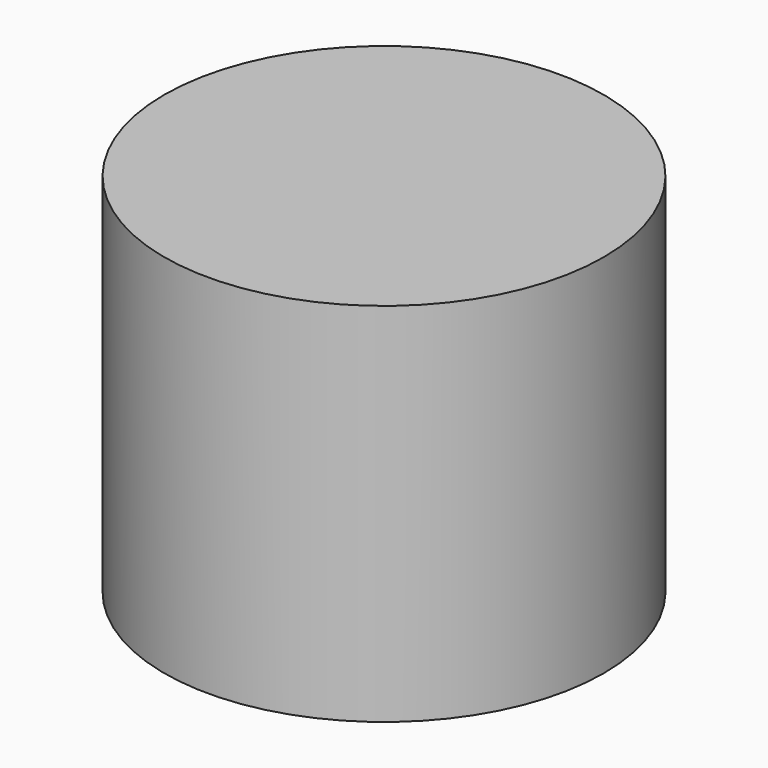
from build123d import *

# Parameters (mm, degrees)
SKETCH_R  = 3
PAD_DEPTH = 5


with BuildPart() as part:
    # Sketch → Pad (new body)
    with BuildSketch(Plane.XY):
        Circle(SKETCH_R)
    extrude(amount=PAD_DEPTH)


solid = part.part
